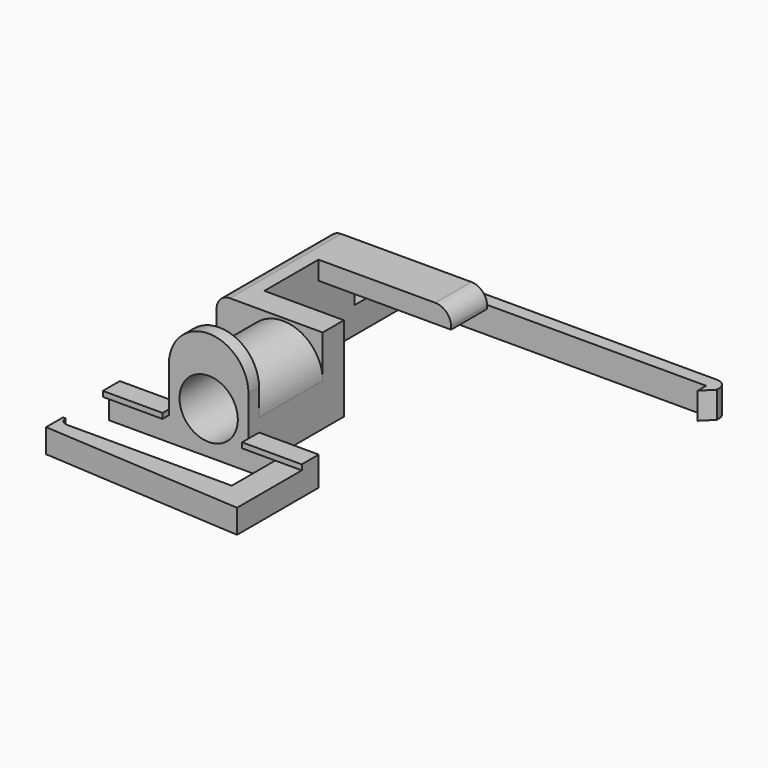
from build123d import *

# Parameters (mm, degrees)
PAD_DEPTH    = 10
PAD001_DEPTH = 22
SKETCH003_W  = 17
SKETCH003_H  = 7
PAD002_DEPTH = 50
FILLET_R     = 6
FILLET001_R  = 5
FILLET002_R  = 5
SKETCH004_R  = 2.5
POCKET_DEPTH = 10.001
SKETCH005_R  = 11
PAD003_DEPTH = 30
SKETCH006_R  = 11
PAD004_DEPTH = 5
PAD005_DEPTH = 9
SKETCH008_W  = 22.5
SKETCH008_H  = 2
PAD006_DEPTH = 3


with BuildPart() as part:
    # Sketch → Pad (new body)
    with BuildSketch(Plane.XY):
        with BuildLine():
            Line((123, 46.5), (0, 46.5))
            Line((0, 46.5), (0, -35.5))
            Line((0, -35.5), (40, -35.5))
            Line((40, -35.5), (40, -25.5))
            Line((40, -25.5), (10, -25.5))
            Line((10, -25.5), (10, 41.5))
            Line((10, 41.5), (123, 41.5))
            Line((123, 41.5), (123, 37.5))
            Line((123, 37.5), (127, 41.5))
            Line((127, 41.5), (127, 42.5))
            ThreePointArc((127, 42.5), (125.828427, 45.328427), (123, 46.5))
        make_face()
    extrude(amount=PAD_DEPTH)

    # Sketch002 (on Face13 of Pad) → Pad001 (join)
    with BuildSketch(Plane.XY.offset(10)):
        Polygon((0, -35.5), (40, -35.5), (40, -25.5), (10, -25.5), (10, 17), (0, 17), align=None)
    extrude(amount=PAD001_DEPTH)

    # Sketch003 (on Face20 of Pad001) → Pad002 (join)
    with BuildSketch(Plane.YZ.offset(10)):
        with Locations((8.5, 28.5)):
            Rectangle(SKETCH003_W, SKETCH003_H)
    extrude(amount=PAD002_DEPTH)

    # Fillet
    fillet_edges = [part.edges().sort_by_distance(p)[0] for p in [
        (60, 8.5, 32),
    ]]
    fillet(fillet_edges, radius=FILLET_R)

    # Fillet001
    fillet001_edges = [part.edges().sort_by_distance(p)[0] for p in [
        (0, 46.5, 5),
    ]]
    fillet(fillet001_edges, radius=FILLET001_R)

    # Fillet002
    fillet002_edges = [part.edges().sort_by_distance(p)[0] for p in [
        (0, -9.25, 32),
    ]]
    fillet(fillet002_edges, radius=FILLET002_R)

    # Sketch004 (on Face19 of Fillet002) → Pocket (cut, through all)
    with BuildSketch(Plane(origin=(0, -25.5, 0), x_dir=(-1, 0, 0), z_dir=(0, 1, 0))):
        with Locations((-25, 16)):
            Circle(SKETCH004_R)
    extrude(amount=-POCKET_DEPTH, mode=Mode.SUBTRACT)

    # Sketch005 (on Face9 of Pocket) → Pad003 (join)
    with BuildSketch(Plane.XZ.offset(35.5)):
        with BuildLine():
            ThreePointArc((40, 16), (25, 31), (10, 16))
            Line((10, 16), (10, 0))
            Line((10, 0), (40, 0))
            Line((40, 0), (40, 16))
        make_face()
        with Locations((25, 16)):
            Circle(SKETCH005_R, mode=Mode.SUBTRACT)
    extrude(amount=PAD003_DEPTH)

    # Sketch006 (on Face34 of Pad003) → Pad004 (join)
    with BuildSketch(Plane.XZ.offset(65.5)):
        with BuildLine():
            ThreePointArc((40, 26), (25, 41), (10, 26))
            Line((10, 11), (10, 26))
            Line((10, 11), (-12.5, 11))
            Line((-12.5, 11), (-12.5, 0))
            Line((-12.5, 0), (62.5, 0))
            Line((62.5, 0), (62.5, 11))
            Line((62.5, 11), (40, 11))
            Line((40, 11), (40, 26))
        make_face()
        with Locations((25, 16)):
            Circle(SKETCH006_R, mode=Mode.SUBTRACT)
    extrude(amount=PAD004_DEPTH)

    # Sketch007 (on Face40 of Pad004) → Pad005 (join)
    with BuildSketch(Plane(origin=(0, 0, 0), x_dir=(1, 0, 0), z_dir=(0, 0, -1))):
        with BuildLine():
            Line((52.5, 70.5), (52.5, 94))
            Line((52.5, 94), (-9.5, 94))
            ThreePointArc((-9.5, 94), (-11.62132, 93.12132), (-12.5, 91))
            Line((-12.5, 91), (-13.5, 91))
            Line((-13.5, 91), (-13.5, 99))
            Line((62.5, 104), (-13.5, 99))
            Line((62.5, 104), (62.5, 94))
            Line((62.5, 94), (62.5, 70.5))
            Line((62.5, 70.5), (52.5, 70.5))
        make_face()
    extrude(amount=-PAD005_DEPTH)

    # Sketch008 (on Face43 of Pad005) → Pad006 (join)
    with BuildSketch(Plane.XZ.offset(70.5)):
        with Locations((51.25, 10)):
            Rectangle(SKETCH008_W, SKETCH008_H)
        with Locations((-1.25, 10)):
            Rectangle(SKETCH008_W, SKETCH008_H)
    extrude(amount=PAD006_DEPTH)


solid = part.part
